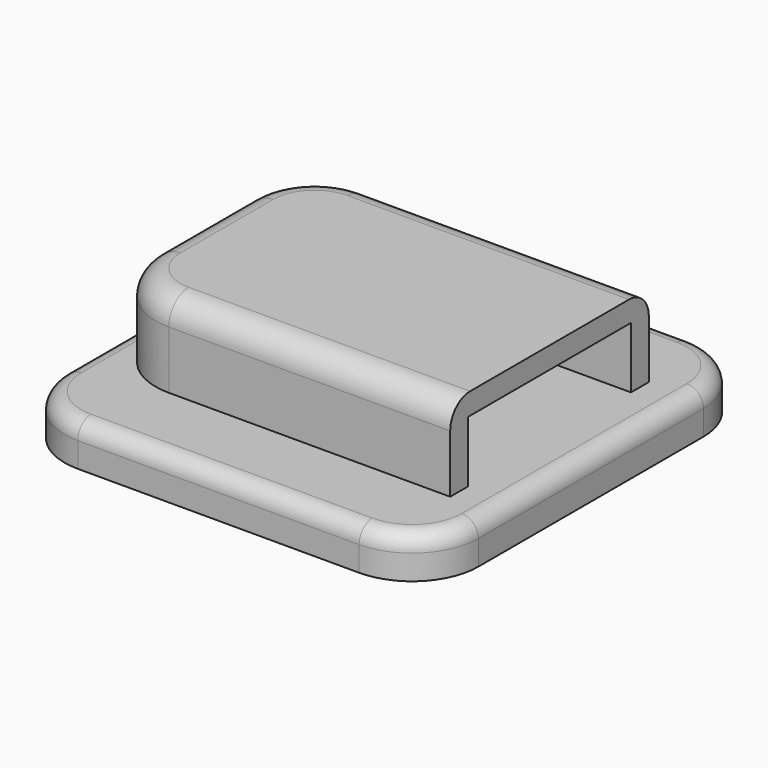
from build123d import *

# Parameters (mm, degrees)
SKETCH002_W  = 42
SKETCH002_H  = 24.6
PAD002_DEPTH = 7.4
FILLET004_R  = 8
SKETCH_W     = 50
SKETCH_H     = 50
PAD_DEPTH    = 5
FILLET_R     = 8
SKETCH001_W  = 42
SKETCH001_H  = 30
PAD001_DEPTH = 10
SKETCH003_W  = 40
SKETCH003_H  = 40
POCKET_DEPTH = 2
FILLET005_R  = 8
FILLET006_R  = 3
FILLET007_R  = 2
FILLET008_R  = 3


with BuildPart() as body001:
    # Sketch002 → Pad002 (new body)
    with BuildSketch(Plane.XY):
        with Locations((3, 0)):
            Rectangle(SKETCH002_W, SKETCH002_H)
    extrude(amount=PAD002_DEPTH)

    # Fillet004
    fillet004_edges = [body001.edges().sort_by_distance(p)[0] for p in [
        (-18, 12.3, 3.7),
        (-18, -12.3, 3.7),
    ]]
    fillet(fillet004_edges, radius=FILLET004_R)


with BuildPart() as body001_1:
    # Body001 placement: moved
    add(body001.part.moved(Location((0, 0, 5))))


with BuildPart() as body:
    # Sketch → Pad (new body)
    with BuildSketch(Plane.XY):
        Rectangle(SKETCH_W, SKETCH_H)
    extrude(amount=PAD_DEPTH)

    # Fillet
    fillet_edges = [body.edges().sort_by_distance(p)[0] for p in [
        (25, 25, 2.5),
        (25, -25, 2.5),
        (-25, 25, 2.5),
        (-25, -25, 2.5),
    ]]
    fillet(fillet_edges, radius=FILLET_R)

    # Sketch001 (on Face5 of Fillet) → Pad001 (join)
    with BuildSketch(Plane.XY.offset(5)):
        with Locations((-1, 0)):
            Rectangle(SKETCH001_W, SKETCH001_H)
    extrude(amount=PAD001_DEPTH)

    # Sketch003 → Pocket (cut)
    with BuildSketch(Plane(origin=(0, 0, 0), x_dir=(1, 0, 0), z_dir=(0, 0, -1))):
        Rectangle(SKETCH003_W, SKETCH003_H)
    extrude(amount=-POCKET_DEPTH, mode=Mode.SUBTRACT)

    # Boolean: cut Body001
    add(body001_1.part, mode=Mode.SUBTRACT)

    # Fillet005
    fillet005_edges = [body.edges().sort_by_distance(p)[0] for p in [
        (-22, 15, 10),
        (-22, -15, 10),
    ]]
    fillet(fillet005_edges, radius=FILLET005_R)

    # Fillet006
    fillet006_edges = [body.edges().sort_by_distance(p)[0] for p in [
        (-20, -20, 1),
        (-20, 20, 1),
        (20, 20, 1),
        (20, -20, 1),
    ]]
    fillet(fillet006_edges, radius=FILLET006_R)

    # Fillet007
    fillet007_edges = [body.edges().sort_by_distance(p)[0] for p in [
        (0, -25, 5),
    ]]
    fillet(fillet007_edges, radius=FILLET007_R)

    # Fillet008
    fillet008_edges = [body.edges().sort_by_distance(p)[0] for p in [
        (3, -15, 15),
    ]]
    fillet(fillet008_edges, radius=FILLET008_R)


solid = body.part
